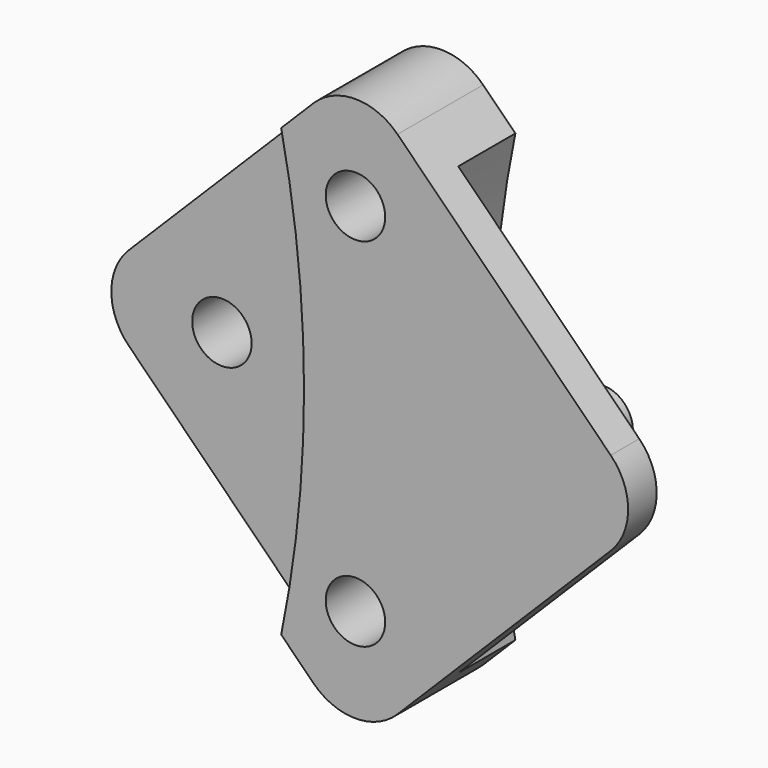
from build123d import *

# Parameters (mm, degrees)
F1_DEPTH = 1.8
F2_DEPTH = 1.2
F4_DEPTH = 1.2
F5_R     = 1
F6_R     = 0.5
F7_DEPTH = 12.5
F8_R     = 0.5
F9_DEPTH = 1.2


with BuildPart() as f1:
    # F0 (on Front) → F1 (new body)
    with BuildSketch(Plane.XZ):
        with BuildLine():
            Line((5, 0), (0, 5))
            Line((0, 5), (-1.249147, 3.750853))
            ThreePointArc((-1.249147, 3.750853), (-0.864917, 0), (-1.249147, -3.750853))
            Line((-1.249147, -3.750853), (0, -5))
            Line((0, -5), (5, 0))
        make_face()
    extrude(amount=F1_DEPTH)

    # F0 (on Front) → F2 (join)
    with BuildSketch(Plane.XZ):
        with BuildLine():
            ThreePointArc((-1.249147, -3.750853), (-0.864917, 0), (-1.249147, 3.750853))
            Line((-1.249147, 3.750853), (-5, 0))
            Line((-5, 0), (-1.249147, -3.750853))
        make_face()
    extrude(amount=F2_DEPTH)

    # F3 (on face) → F4 (cut)
    with BuildSketch(Plane.XZ):
        with BuildLine():
            ThreePointArc((1.249147, 3.750853), (0.864917, 0), (1.249147, -3.750853))
            Line((1.249147, -3.750853), (5, 0))
            Line((5, 0), (1.249147, 3.750853))
        make_face()
    extrude(amount=F4_DEPTH, mode=Mode.SUBTRACT)

    # F5
    f5_edges = [f1.edges().sort_by_distance(p)[0] for p in [
        (0, -0.9, 5),
        (5, -1.5, 0),
        (0, -0.9, -5),
        (-5, -0.6, 0),
    ]]
    fillet(f5_edges, radius=F5_R)

    # F6 (on Front) → F7 (cut, symmetric)
    with BuildSketch(Plane.XZ):
        with Locations((-2.72579, 0)):
            Circle(F6_R)
        with Locations((0, 3)):
            Circle(F6_R)
        with Locations((0, -3)):
            Circle(F6_R)
    extrude(amount=F7_DEPTH, both=True, mode=Mode.SUBTRACT)

    # F8 (on face) → F9 (join)
    with BuildSketch(Plane(origin=(0, -1.2, 0), x_dir=(-1, 0, 0), z_dir=(0, 1, 0))):
        with Locations((-2.72579, 0)):
            Circle(F8_R)
    extrude(amount=F9_DEPTH)


solid = f1.part
